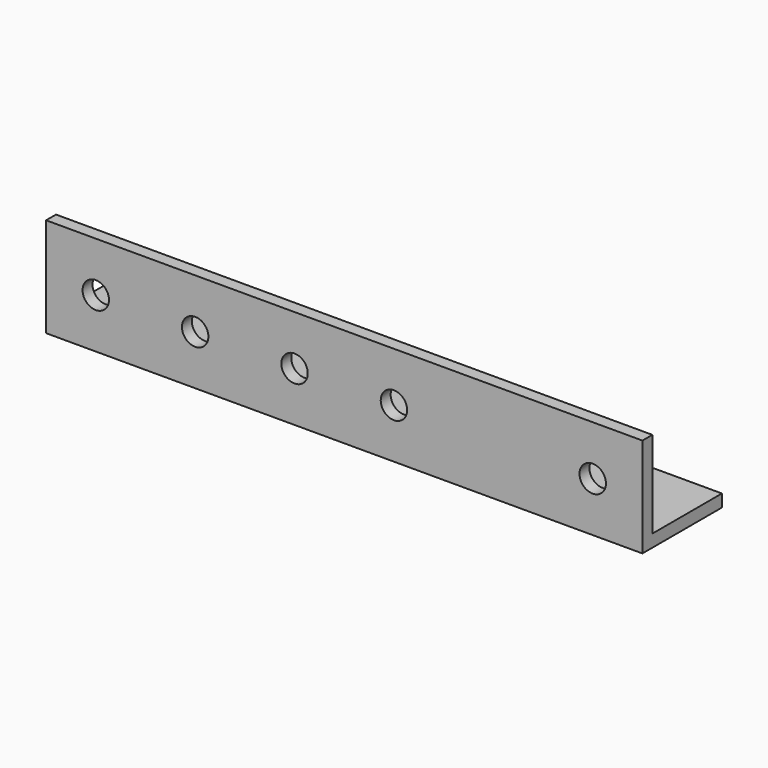
from build123d import *

# Parameters (mm, degrees)
F1_DEPTH       = 127
F2_DEPTH       = 25.4
F5_D           = 6.7564
F5_DEPTH       = 76.2
F5_TIP         = 2.0298273432
F5_ON_F3_D     = 6.7564
F5_ON_F3_DEPTH = 76.2
F5_ON_F3_TIP   = 2.0298273432


with BuildPart() as f1:
    # F0 (on Right) → F1 (new body)
    with BuildSketch(Plane.YZ):
        Polygon((-56.4980393835, 48.746819774), (-59.6730393835, 48.746819774), (-59.6730393835, 23.346819774), (-34.2730393835, 23.346819774), (-34.2730393835, 26.521819774), (-56.4980393835, 26.521819774), align=None)
    extrude(amount=F1_DEPTH)

    # F2 (add): a face of the model
    f2_faces = [f1.faces().sort_by_distance(p)[0] for p in [
        (0, -58.0855393835, 48.3876095291),
    ]]
    extrude(f2_faces, amount=F2_DEPTH)

    # F5
    with Locations(Plane(origin=(0, 0, 23.346819774), x_dir=(1, 0, 0), z_dir=(0, 0, -1))):
        with Locations((114.3, 46.9730393835), (63.5, 46.9730393835), (38.1, 46.9730393835), (12.7, 46.9730393835), (-12.7, 46.9730393835)):
            Hole(F5_D / 2, depth=F5_DEPTH)
            with Locations((0, 0, -(F5_DEPTH + F5_TIP / 2))):  # 118° drill point
                Cone(0, F5_D / 2, F5_TIP, mode=Mode.SUBTRACT)

    # F5 on F3
    with Locations(Plane.XZ.offset(59.6730393835)):
        with Locations((114.3, 36.046819774), (63.5, 36.046819774), (38.1, 36.046819774), (12.7, 36.046819774), (-12.7, 36.046819774)):
            Hole(F5_ON_F3_D / 2, depth=F5_ON_F3_DEPTH)
            with Locations((0, 0, -(F5_ON_F3_DEPTH + F5_ON_F3_TIP / 2))):  # 118° drill point
                Cone(0, F5_ON_F3_D / 2, F5_ON_F3_TIP, mode=Mode.SUBTRACT)


solid = f1.part
